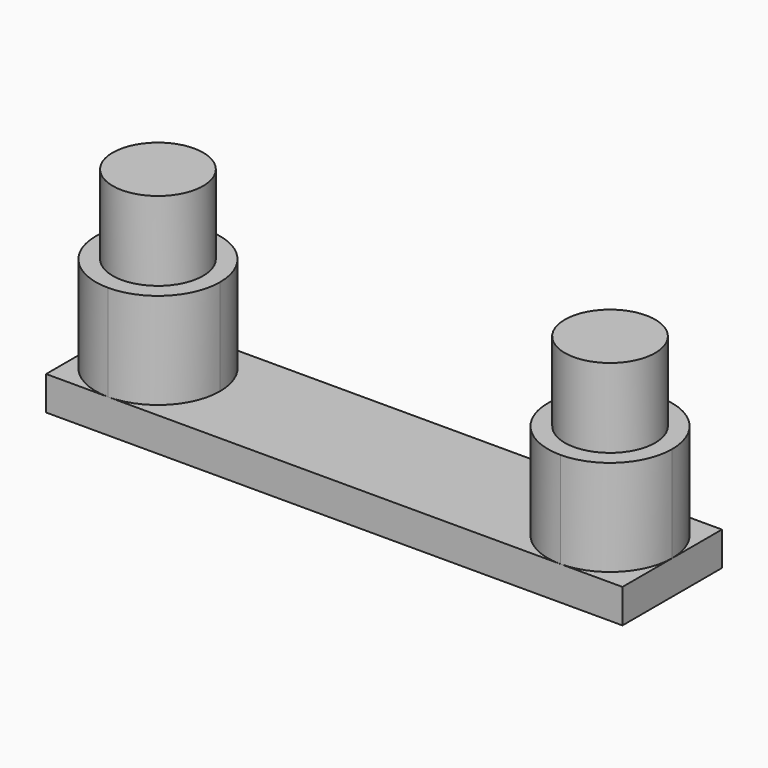
from build123d import *

# Parameters (mm, degrees)
F1_DEPTH = 3
F2_DEPTH = 11.5
F3_DEPTH = 18.5


with BuildPart() as f1:
    # F0 (on Top) → F1 (new body)
    with BuildSketch(Plane.XY):
        with BuildLine():
            Line((0, 5.5), (0, 0))
            Line((0, 0), (5.5, 0))
            ThreePointArc((5.5, 0), (1.6109127035, 1.6109127035), (0, 5.5))
        make_face()
        with BuildLine():
            ThreePointArc((11, 5.5), (9.3890872965, 1.6109127035), (5.5, 0))
            Line((5.5, 0), (45.5, 0))
            ThreePointArc((45.5, 0), (41.6109127035, 1.6109127035), (40, 5.5))
            Line((40, 5.5), (11, 5.5))
        make_face()
        with BuildLine():
            ThreePointArc((0, 5.5), (1.6109127035, 1.6109127035), (5.5, 0))
            ThreePointArc((5.5, 0), (9.3890872965, 1.6109127035), (11, 5.5))
            Line((11, 5.5), (9.5, 5.5))
            ThreePointArc((9.5, 5.5), (5.5, 1.5), (1.5, 5.5))
            Line((1.5, 5.5), (0, 5.5))
        make_face()
        with BuildLine():
            ThreePointArc((5.5, 11), (1.6109127035, 9.3890872965), (0, 5.5))
            Line((0, 5.5), (1.5, 5.5))
            ThreePointArc((1.5, 5.5), (5.5, 9.5), (9.5, 5.5))
            Line((9.5, 5.5), (11, 5.5))
            ThreePointArc((11, 5.5), (9.3890872965, 9.3890872965), (5.5, 11))
        make_face()
        with BuildLine():
            Line((0, 11), (0, 5.5))
            ThreePointArc((0, 5.5), (1.6109127035, 9.3890872965), (5.5, 11))
            Line((5.5, 11), (0, 11))
        make_face()
        with BuildLine():
            ThreePointArc((51, 5.5), (49.3890872965, 1.6109127035), (45.5, 0))
            Line((45.5, 0), (51, 0))
            Line((51, 0), (51, 5.5))
        make_face()
        with BuildLine():
            ThreePointArc((40, 5.5), (41.6109127035, 1.6109127035), (45.5, 0))
            ThreePointArc((45.5, 0), (49.3890872965, 1.6109127035), (51, 5.5))
            Line((51, 5.5), (49.5, 5.5))
            ThreePointArc((49.5, 5.5), (45.5, 1.5), (41.5, 5.5))
            Line((41.5, 5.5), (40, 5.5))
        make_face()
        with BuildLine():
            ThreePointArc((5.5, 11), (9.3890872965, 9.3890872965), (11, 5.5))
            Line((11, 5.5), (40, 5.5))
            ThreePointArc((40, 5.5), (41.6109127035, 9.3890872965), (45.5, 11))
            Line((45.5, 11), (5.5, 11))
        make_face()
        with BuildLine():
            ThreePointArc((45.5, 11), (41.6109127035, 9.3890872965), (40, 5.5))
            Line((40, 5.5), (41.5, 5.5))
            ThreePointArc((41.5, 5.5), (45.5, 9.5), (49.5, 5.5))
            Line((49.5, 5.5), (51, 5.5))
            ThreePointArc((51, 5.5), (49.3890872965, 9.3890872965), (45.5, 11))
        make_face()
        with BuildLine():
            ThreePointArc((45.5, 11), (49.3890872965, 9.3890872965), (51, 5.5))
            Line((51, 5.5), (51, 11))
            Line((51, 11), (45.5, 11))
        make_face()
    extrude(amount=F1_DEPTH)

    # F0 (on Top) → F2 (join)
    with BuildSketch(Plane.XY):
        with BuildLine():
            ThreePointArc((0, 5.5), (1.6109127035, 1.6109127035), (5.5, 0))
            ThreePointArc((5.5, 0), (9.3890872965, 1.6109127035), (11, 5.5))
            Line((11, 5.5), (9.5, 5.5))
            ThreePointArc((9.5, 5.5), (5.5, 1.5), (1.5, 5.5))
            Line((1.5, 5.5), (0, 5.5))
        make_face()
        with BuildLine():
            ThreePointArc((5.5, 11), (1.6109127035, 9.3890872965), (0, 5.5))
            Line((0, 5.5), (1.5, 5.5))
            ThreePointArc((1.5, 5.5), (5.5, 9.5), (9.5, 5.5))
            Line((9.5, 5.5), (11, 5.5))
            ThreePointArc((11, 5.5), (9.3890872965, 9.3890872965), (5.5, 11))
        make_face()
        with BuildLine():
            ThreePointArc((45.5, 11), (41.6109127035, 9.3890872965), (40, 5.5))
            Line((40, 5.5), (41.5, 5.5))
            ThreePointArc((41.5, 5.5), (45.5, 9.5), (49.5, 5.5))
            Line((49.5, 5.5), (51, 5.5))
            ThreePointArc((51, 5.5), (49.3890872965, 9.3890872965), (45.5, 11))
        make_face()
        with BuildLine():
            ThreePointArc((40, 5.5), (41.6109127035, 1.6109127035), (45.5, 0))
            ThreePointArc((45.5, 0), (49.3890872965, 1.6109127035), (51, 5.5))
            Line((51, 5.5), (49.5, 5.5))
            ThreePointArc((49.5, 5.5), (45.5, 1.5), (41.5, 5.5))
            Line((41.5, 5.5), (40, 5.5))
        make_face()
    extrude(amount=F2_DEPTH)

    # F0 (on Top) → F3 (join)
    with BuildSketch(Plane.XY):
        with BuildLine():
            ThreePointArc((49.5, 5.5), (45.5, 9.5), (41.5, 5.5))
            Line((41.5, 5.5), (49.5, 5.5))
        make_face()
        with BuildLine():
            Line((49.5, 5.5), (41.5, 5.5))
            ThreePointArc((41.5, 5.5), (45.5, 1.5), (49.5, 5.5))
        make_face()
        with BuildLine():
            ThreePointArc((9.5, 5.5), (5.5, 9.5), (1.5, 5.5))
            Line((1.5, 5.5), (9.5, 5.5))
        make_face()
        with BuildLine():
            Line((9.5, 5.5), (1.5, 5.5))
            ThreePointArc((1.5, 5.5), (5.5, 1.5), (9.5, 5.5))
        make_face()
    extrude(amount=F3_DEPTH)


solid = f1.part
